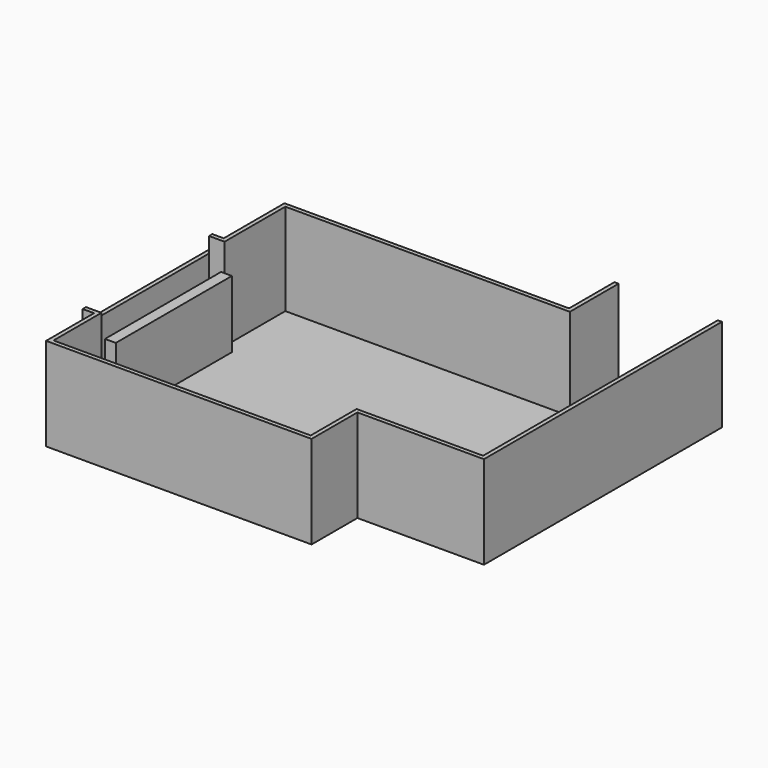
from build123d import *

# Parameters (mm, degrees)
F1_DEPTH = 90
F2_DEPTH = 1
F0_W     = 10.5
F0_H     = 140.5
F3_DEPTH = 66
F4_W     = 157
F4_H     = 14.86842
F5_DEPTH = 4


with BuildPart() as f1:
    # F0 (on Top) → F1 (new body)
    with BuildSketch(Plane.XY):
        Polygon((0, -73.5), (0, 0), (275.5, 0), (275.5, 59), (271.5, 59), (271.5, 4), (-4, 4), (-4, -69.5), (-19, -69.5), (-19, -226.5), (-4, -226.5), (-4, -284.5), (253, -284.5), (253, -229), (375.5, -229), (375.5, 59), (371.5, 59), (371.5, 0), (371.5, -225), (249, -225), (249, -280.5), (0, -280.5), (0, -222.5), (-15, -222.5), (-15, -73.5), align=None)
    extrude(amount=F1_DEPTH)

    # F0 (on Top) → F2 (join)
    with BuildSketch(Plane.XY):
        Polygon((275.5, 0), (0, 0), (0, -73.5), (0, -77.75), (10.5, -77.75), (10.5, -218.25), (0, -218.25), (0, -222.5), (0, -280.5), (249, -280.5), (249, -225), (371.5, -225), (371.5, 0), (371.5, 59), (275.5, 59), align=None)
    extrude(amount=F2_DEPTH)

    # F0 (on Top) → F3 (join)
    with BuildSketch(Plane.XY):
        with Locations((5.25, -148)):
            Rectangle(F0_W, F0_H)
    extrude(amount=F3_DEPTH)

    # F4 (on face) → F5 (cut)
    with BuildSketch(Plane(origin=(-19, 0, 0), x_dir=(0, -1, 0), z_dir=(-1, 0, 0))):
        with Locations((148, 82.56579)):
            Rectangle(F4_W, F4_H)
    extrude(amount=-F5_DEPTH, mode=Mode.SUBTRACT)


solid = f1.part
